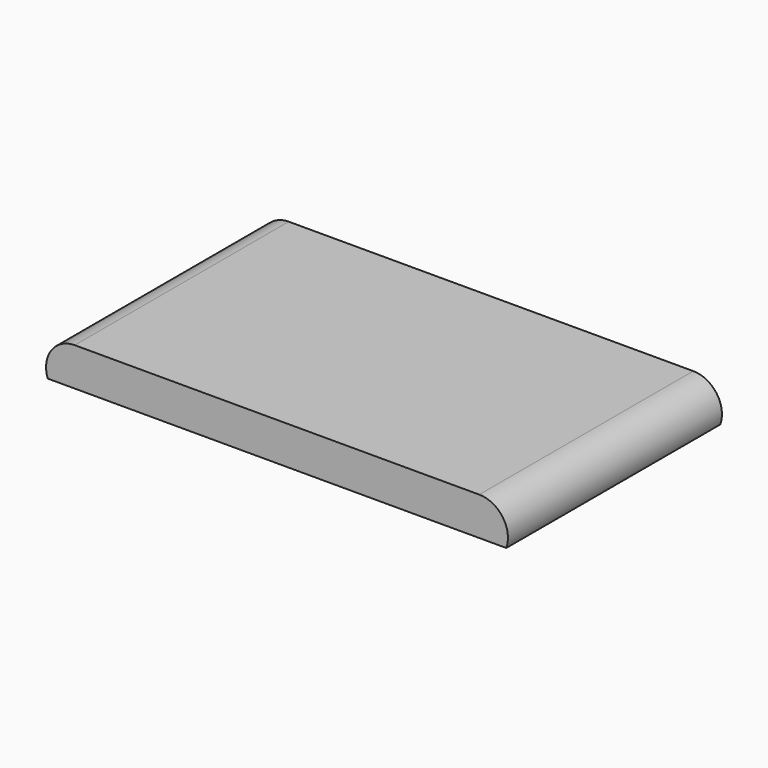
from build123d import *

# Parameters (mm, degrees)
F1_DEPTH = 88.9


with BuildPart() as f1:
    # F0 (on Front) → F1 (new body)
    with BuildSketch(Plane.XZ):
        with BuildLine():
            ThreePointArc((8.980256, 12.7), (1.203126, 8.674261), (0, 0))
            Line((0, 0), (152.4, 0))
            ThreePointArc((152.4, 0), (151.196874, 8.674261), (143.419744, 12.7))
            Line((143.419744, 12.7), (8.980256, 12.7))
        make_face()
    extrude(amount=-F1_DEPTH)


solid = f1.part
